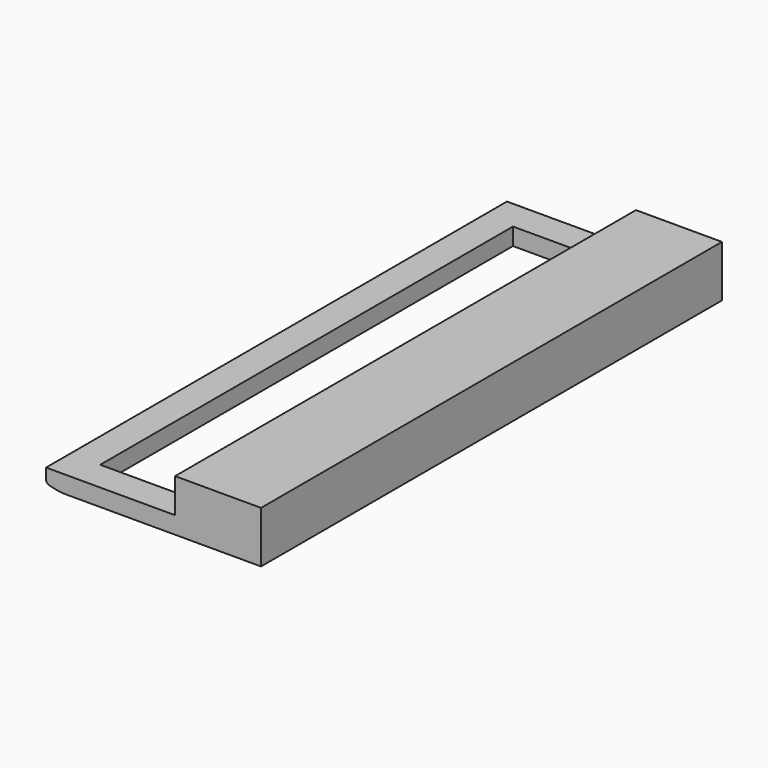
from build123d import *

# Parameters (mm, degrees)
F0_W     = 7.62
F0_H     = 34.036
F0_W_2   = 5.207
F0_H_2   = 30.48
F1_DEPTH = 1.016
F2_SIZE2 = 0.2041772846
F2_SIZE  = 0.762
F3_R     = 0.254
F4_R     = 3.048
F5_W     = 5.08
F5_H     = 34.036
F6_DEPTH = 3.048


with BuildPart() as f1:
    # F0 (on Top) → F1 (new body)
    with BuildSketch(Plane.XY):
        with Locations((3.81, 17.018)):
            Rectangle(F0_W, F0_H)
        with Locations((4.3815, 17.018)):
            Rectangle(F0_W_2, F0_H_2, mode=Mode.SUBTRACT)
    extrude(amount=F1_DEPTH)

    # F2
    f2_edges = [f1.edges().sort_by_distance(p)[0] for p in [
        (0, 17.018, 0),
    ]]
    f2_side = f1.faces().sort_by_distance((0.348786, 17.018, 0))[0]
    chamfer(f2_edges, length=F2_SIZE, length2=F2_SIZE2, reference=f2_side)

    # F3
    f3_edges = [f1.edges().sort_by_distance(p)[0] for p in [
        (0, 17.018, 0.204177),
    ]]
    fillet(f3_edges, radius=F3_R)

    # F4
    f4_edges = [f1.edges().sort_by_distance(p)[0] for p in [
        (0.762, 17.018, 0),
    ]]
    fillet(f4_edges, radius=F4_R)

    # F5 (on Top) → F6 (join)
    with BuildSketch(Plane.XY):
        with Locations((10.16, 17.018)):
            Rectangle(F5_W, F5_H)
    extrude(amount=F6_DEPTH)


solid = f1.part
